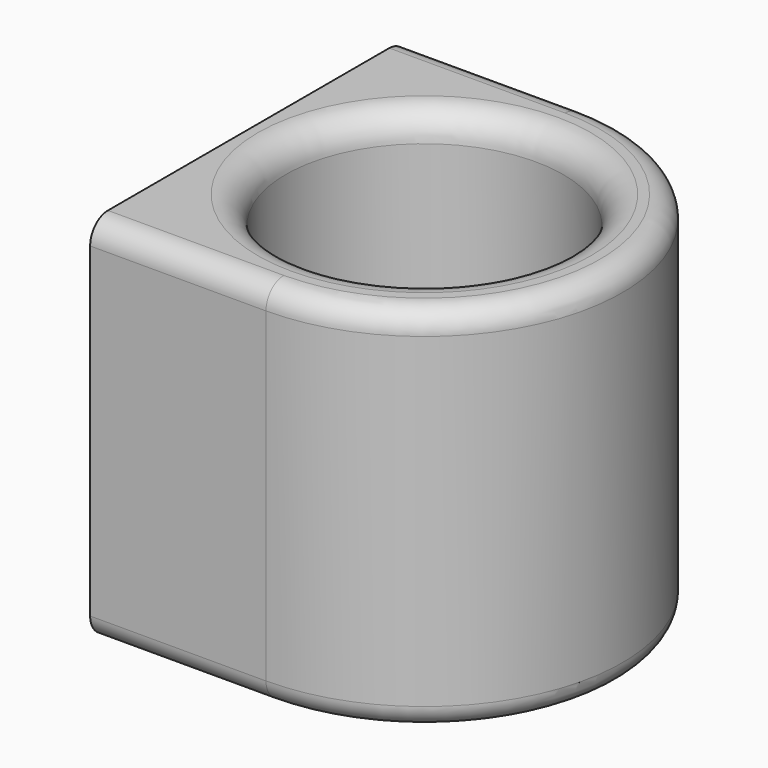
from build123d import *

# Parameters (mm, degrees)
F0_R     = 5.35
F0_R_2   = 3.75
F1_DEPTH = 10
F2_W     = 10.7
F2_H     = 10
F3_DEPTH = 4.75
F4_W     = 7.811706725
F4_H     = 10
F5_DEPTH = 25
F6_DEPTH = 25
F7_W     = 9.1
F7_H     = 8.4
F8_DEPTH = 0.1
F9_R     = 0.6
F10_R    = 0.75


with BuildPart() as f1:
    # F0 (on Top) → F1 (new body)
    with BuildSketch(Plane.XY):
        Circle(F0_R)
        Circle(F0_R_2, mode=Mode.SUBTRACT)
        Circle(F0_R_2)
    extrude(amount=F1_DEPTH)

    # F2 (on Right) → F3 (join)
    with BuildSketch(Plane.YZ):
        with Locations((0, 5)):
            Rectangle(F2_W, F2_H)
    extrude(amount=-F3_DEPTH)

    # F4 (on face) → F5 (cut)
    with BuildSketch(Plane(origin=(-4.75, 0, 0), x_dir=(0, -1, 0), z_dir=(-1, 0, 0))):
        with Locations((1.4441466375, 5)):
            Rectangle(F4_W, F4_H)
    extrude(amount=F5_DEPTH, mode=Mode.SUBTRACT)

    # F0 (on Top) → F6 (cut)
    with BuildSketch(Plane.XY):
        Circle(F0_R_2)
    extrude(amount=F6_DEPTH, mode=Mode.SUBTRACT)

    # F7 (on face) → F8 (join)
    with BuildSketch(Plane(origin=(-4.75, 0, 0), x_dir=(0, -1, 0), z_dir=(-1, 0, 0))):
        with Locations((0, 5)):
            Rectangle(F7_W, F7_H)
    extrude(amount=F8_DEPTH)

    # F9
    f9_edges = [f1.edges().sort_by_distance(p)[0] for p in [
        (-2.375, 5.35, 10),
        (-2.375, 5.35, 0),
        (-2.375, -5.35, 0),
        (-2.375, -5.35, 10),
        (-4.8, 4.55, 9.2),
        (-4.8, -4.55, 9.2),
        (-4.8, -4.55, 0.8),
        (-4.8, 4.55, 0.8),
    ]]
    fillet(f9_edges, radius=F9_R)

    # F10
    f10_edges = [f1.edges().sort_by_distance(p)[0] for p in [
        (-3.75, 0, 0),
        (-3.75, 0, 10),
    ]]
    fillet(f10_edges, radius=F10_R)


solid = f1.part
